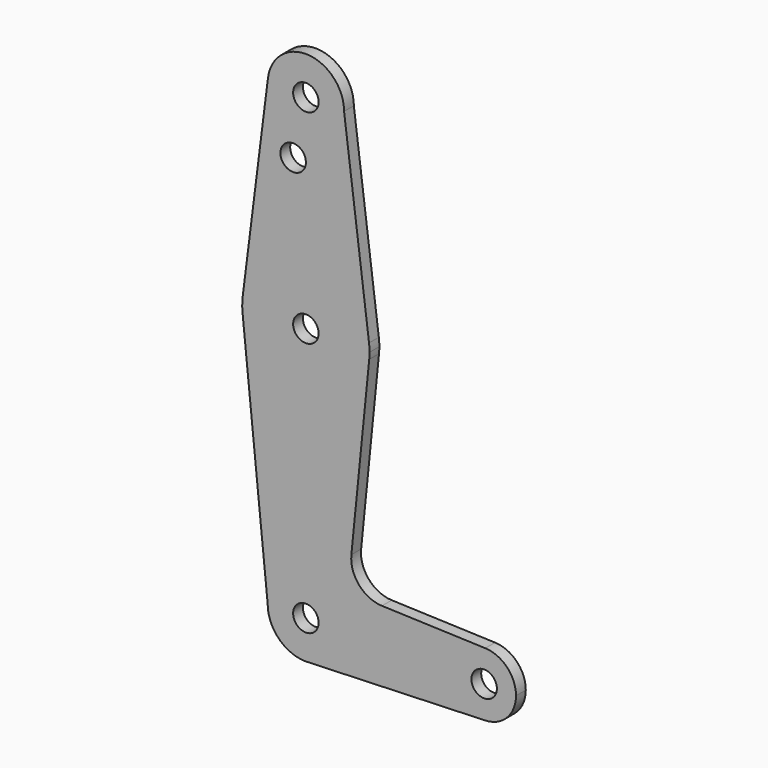
from build123d import *

# Parameters (mm, degrees)
F0_R     = 3.175
F1_DEPTH = 3.048


with BuildPart() as f1:
    # F0 (on Front) → F1 (new body)
    with BuildSketch(Plane.XZ):
        with BuildLine():
            ThreePointArc((9.525, 114.3), (0.596483, 123.806305), (-9.450293, 115.490625))
            ThreePointArc((-9.450293, 115.490625), (-0.596483, 104.793695), (9.525, 114.3))
        make_face()
        with Locations((0, 114.3)):
            Circle(F0_R, mode=Mode.SUBTRACT)
        with BuildLine():
            Line((-9.450293, 115.490625), (-15.750488, 65.484375))
            ThreePointArc((-15.750488, 65.484375), (-0.012053, 79.374995), (15.747457, 65.508289))
            Line((15.747457, 65.508289), (9.525, 114.3))
            ThreePointArc((9.525, 114.3), (-0.596483, 104.793695), (-9.450293, 115.490625))
        make_face()
        with Locations((-3.175, 100.0252)):
            Circle(F0_R, mode=Mode.SUBTRACT)
        with BuildLine():
            ThreePointArc((-15.750488, 65.484375), (-15.873819, 63.693615), (-15.794203, 61.90038))
            ThreePointArc((-15.794203, 61.90038), (0.006091, 47.625001), (15.795426, 61.9125))
            ThreePointArc((15.795426, 61.9125), (15.855094, 62.705253), (15.875, 63.5))
            ThreePointArc((15.875, 63.5), (15.843082, 64.506168), (15.747457, 65.508289))
            ThreePointArc((15.747457, 65.508289), (-0.012053, 79.374995), (-15.750488, 65.484375))
        make_face()
        with Locations((0, 63.5)):
            Circle(F0_R, mode=Mode.SUBTRACT)
        with BuildLine():
            ThreePointArc((-9.525, 0), (0, 9.525), (9.525, 0))
            ThreePointArc((9.525, 0), (6.970557, -6.491299), (0.677344, -9.500886))
            Line((0.677344, -9.500886), (44.732405, -7.932475))
            ThreePointArc((44.732405, -7.932475), (36.5125, 0.000539), (44.733482, 7.932436))
            Line((44.733482, 7.932436), (18.9676, 8.853234))
            ThreePointArc((18.9676, 8.853234), (13.2612, 11.571359), (11.341187, 17.593382))
            Line((11.341187, 17.593382), (15.795426, 61.9125))
            ThreePointArc((15.795426, 61.9125), (0.006091, 47.625001), (-15.794203, 61.90038))
            Line((-15.794203, 61.90038), (-9.525, 0))
        make_face()
        with BuildLine():
            ThreePointArc((0.677344, -9.500886), (6.970557, -6.491299), (9.525, 0))
            ThreePointArc((9.525, 0), (0, 9.525), (-9.525, 0))
            ThreePointArc((-9.525, 0), (-6.735192, -6.735192), (0, -9.525))
            Line((0, -9.525), (0.677344, -9.500886))
        make_face()
        Circle(F0_R, mode=Mode.SUBTRACT)
        with BuildLine():
            ThreePointArc((44.733482, 7.932436), (36.5125, 0.000539), (44.732405, -7.932475))
            ThreePointArc((44.732405, -7.932475), (50.161633, -5.51191), (52.3875, 0))
            ThreePointArc((52.3875, 0), (50.162007, 5.511523), (44.733482, 7.932436))
        make_face()
        with Locations((44.45, 0)):
            Circle(F0_R, mode=Mode.SUBTRACT)
    extrude(amount=F1_DEPTH)


solid = f1.part
